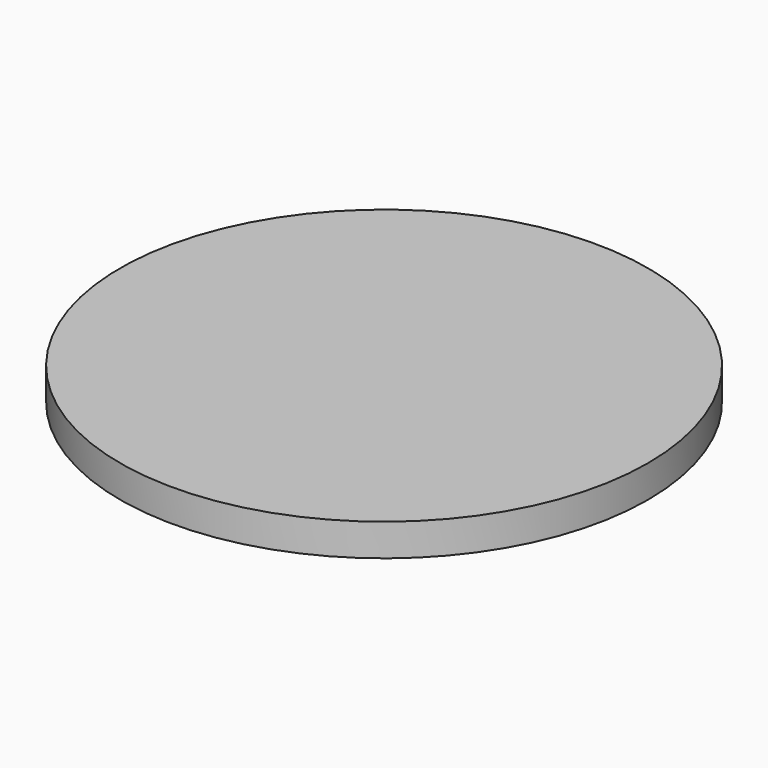
from build123d import *

# Parameters (mm, degrees)
SKETCH_1_R  = 45
PAD_1_DEPTH = 5.5


with BuildPart() as part:
    # Sketch_1 → Pad_1 (new body)
    with BuildSketch(Plane.XY):
        Circle(SKETCH_1_R)
    extrude(amount=PAD_1_DEPTH)


solid = part.part
